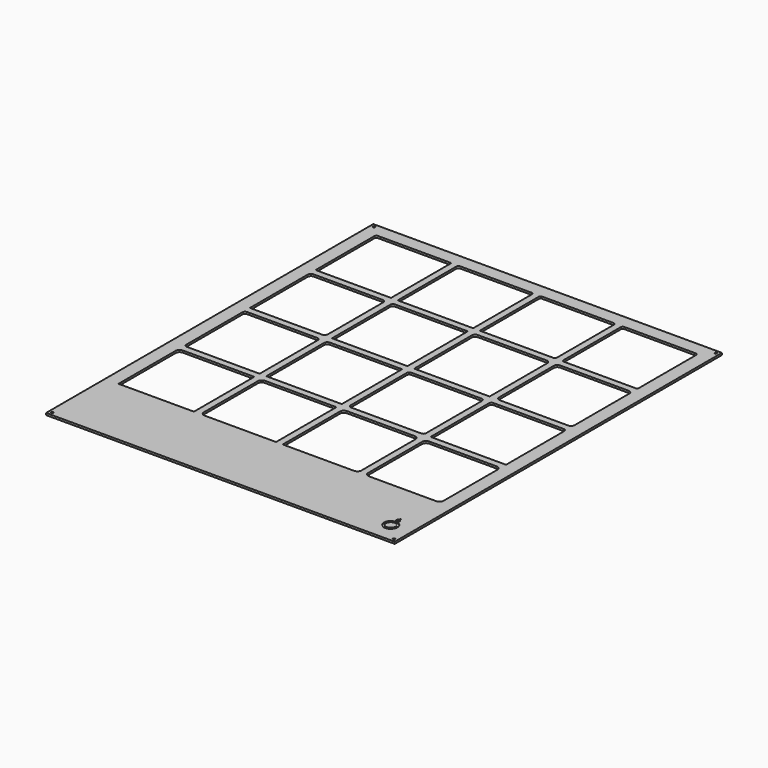
from build123d import *

# Parameters (mm, degrees)
SKETCH_W            = 520
SKETCH_H            = 610
PAD_DEPTH           = 3
SKETCH001_W         = 112.5
SKETCH001_H         = 112.5
POCKET_DEPTH        = 3.001
LINEARPATTERN_COUNT = 4
LINEARPATTERN_PITCH = 122.5
FILLET_R            = 3
FILLET001_R         = 4
FILLET002_R         = 5
FILLET003_R         = 6
SKETCH002_R         = 1.6
POCKET001_DEPTH     = 5
SKETCH003_R         = 10
SKETCH003_R_2       = 7
POCKET002_DEPTH     = 1.2


with BuildPart() as part:
    # Sketch → Pad (new body)
    with BuildSketch(Plane.XY):
        with Locations((0, -45)):
            Rectangle(SKETCH_W, SKETCH_H)
    extrude(amount=-PAD_DEPTH)

    # Sketch001 (on Face5 of Pad) → Pocket (cut, through all)
    with BuildSketch(Plane.XY):
        with Locations((-183.75, 183.75)):
            Rectangle(SKETCH001_W, SKETCH001_H)
        with Locations((-61.25, 183.75)):
            Rectangle(SKETCH001_W, SKETCH001_H)
        with Locations((61.25, 183.75)):
            Rectangle(SKETCH001_W, SKETCH001_H)
        with Locations((183.75, 183.75)):
            Rectangle(SKETCH001_W, SKETCH001_H)
    pocket = extrude(amount=-POCKET_DEPTH, mode=Mode.SUBTRACT)

    # LinearPattern: Pocket ×4
    with Locations(*[(0, -i * LINEARPATTERN_PITCH, 0) for i in range(1, LINEARPATTERN_COUNT)]):
        add(pocket, mode=Mode.SUBTRACT)

    # Fillet
    fillet_edges = [part.edges().sort_by_distance(p)[0] for p in [
        (-240, 240, -1.5),
        (-117.5, 240, -1.5),
        (-5, 240, -1.5),
        (5, 240, -1.5),
        (117.5, 240, -1.5),
        (117.5, 127.5, -1.5),
        (240, 127.5, -1.5),
        (240, 240, -1.5),
        (127.5, 240, -1.5),
        (127.5, 127.5, -1.5),
    ]]
    fillet(fillet_edges, radius=FILLET_R)

    # Fillet001
    fillet001_edges = [part.edges().sort_by_distance(p)[0] for p in [
        (-117.5, 117.5, -1.5),
        (127.5, -5, -1.5),
        (240, -5, -1.5),
        (-240, -117.5, -1.5),
        (-240, -5, -1.5),
        (-127.5, -5, -1.5),
        (117.5, -5, -1.5),
        (117.5, -117.5, -1.5),
        (5, -117.5, -1.5),
        (5, -5, -1.5),
    ]]
    fillet(fillet001_edges, radius=FILLET001_R)

    # Fillet002
    fillet002_edges = [part.edges().sort_by_distance(p)[0] for p in [
        (-117.5, -5, -1.5),
        (5, 117.5, -1.5),
        (117.5, 117.5, -1.5),
        (-240, 117.5, -1.5),
        (-127.5, 117.5, -1.5),
        (-127.5, 5, -1.5),
        (240, 5, -1.5),
        (127.5, 5, -1.5),
        (127.5, 117.5, -1.5),
        (240, 117.5, -1.5),
    ]]
    fillet(fillet002_edges, radius=FILLET002_R)

    # Fillet003
    fillet003_edges = [part.edges().sort_by_distance(p)[0] for p in [
        (-240, -127.5, -1.5),
        (-117.5, -127.5, -1.5),
        (-117.5, -240, -1.5),
        (5, -127.5, -1.5),
        (117.5, -127.5, -1.5),
        (117.5, -240, -1.5),
        (127.5, -127.5, -1.5),
        (240, -127.5, -1.5),
        (240, -240, -1.5),
        (127.5, -240, -1.5),
    ]]
    fillet(fillet003_edges, radius=FILLET003_R)

    # Sketch002 (on Face1 of Fillet003) → Pocket001 (cut)
    with BuildSketch(Plane.XY):
        with Locations((-255, 255)):
            Circle(SKETCH002_R)
        with Locations((255, 255)):
            Circle(SKETCH002_R)
        with Locations((255, -345)):
            Circle(SKETCH002_R)
        with Locations((-255, -345)):
            Circle(SKETCH002_R)
    extrude(amount=-POCKET001_DEPTH, mode=Mode.SUBTRACT)

    # Sketch003 (on Face1 of Pocket001) → Pocket002 (cut)
    with BuildSketch(Plane.XY):
        with Locations((230, -320)):
            Circle(SKETCH003_R)
        with Locations((230, -320)):
            Circle(SKETCH003_R_2, mode=Mode.SUBTRACT)
        Polygon((230, -301), (226.535898, -307), (233.464102, -307), align=None)
    extrude(amount=-POCKET002_DEPTH, mode=Mode.SUBTRACT)


with BuildPart() as part_1:
    # Body placement: moved
    add(part.part.moved(Location((0, 0, 28))))


solid = part_1.part
